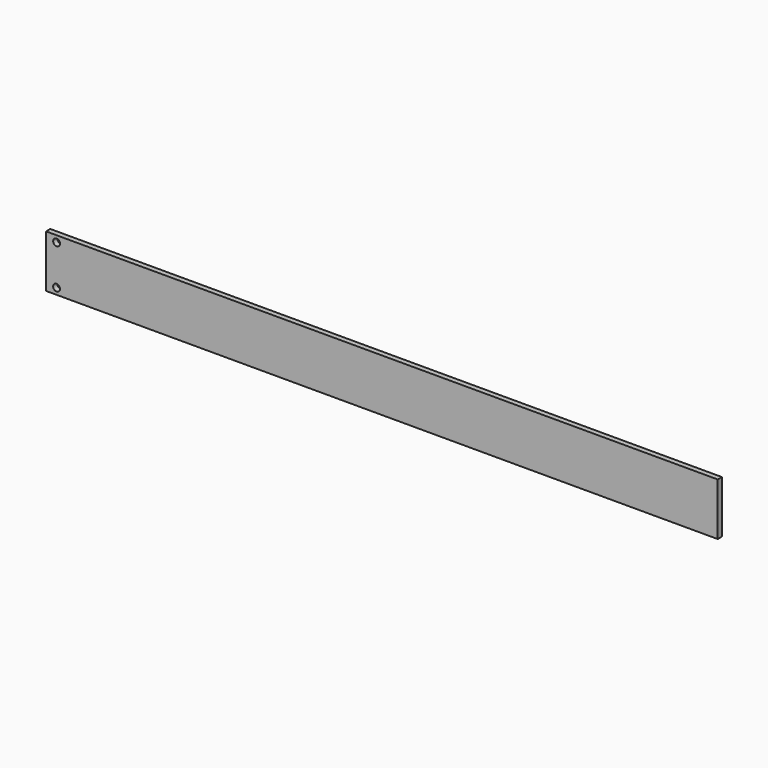
from build123d import *

# Parameters (mm, degrees)
F0_W     = 640
F0_H     = 50
F0_R     = 3.25
F1_DEPTH = 5


with BuildPart() as f1:
    # F0 (on Front) → F1 (new body)
    with BuildSketch(Plane.XZ):
        with Locations((320, 25)):
            Rectangle(F0_W, F0_H)
        with Locations((10, 6)):
            Circle(F0_R, mode=Mode.SUBTRACT)
        with Locations((10, 44)):
            Circle(F0_R, mode=Mode.SUBTRACT)
    extrude(amount=-F1_DEPTH)


solid = f1.part
